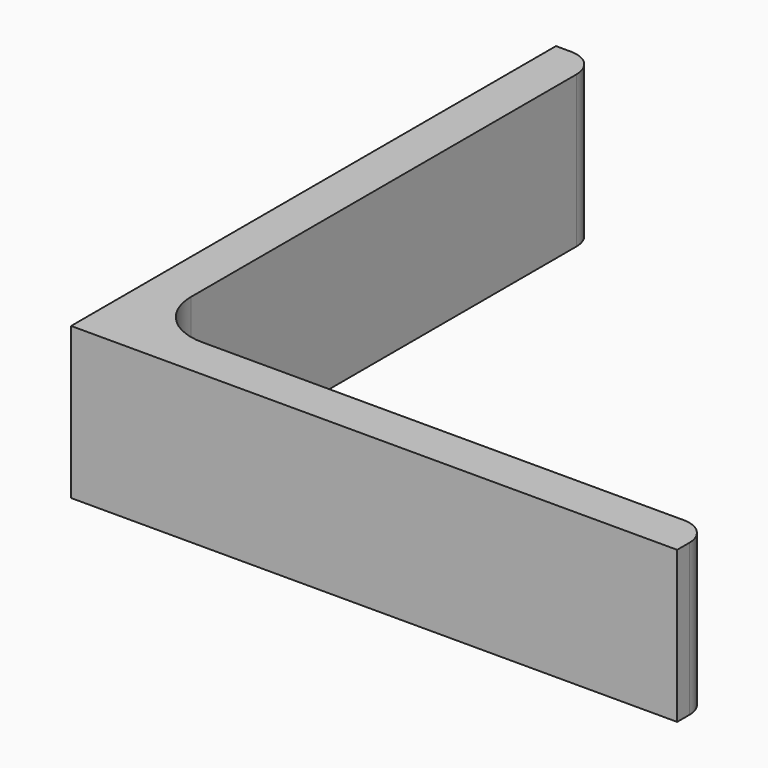
from build123d import *

# Parameters (mm, degrees)
EXTRUDE_DEPTH = 50


with BuildPart() as part:
    # Sketch → Extrude (new body)
    with BuildSketch(Plane.XY):
        with BuildLine():
            Line((0, 0), (200, 0))
            Line((200, 0), (200, 5))
            ThreePointArc((200, 5), (197.363961, 11.363961), (191, 14))
            Line((191, 14), (32, 14))
            ThreePointArc((14, 32), (19.272078, 19.272078), (32, 14))
            Line((14, 191), (14, 32))
            ThreePointArc((14, 191), (11.363961, 197.363961), (5, 200))
            Line((0, 200), (5, 200))
            Line((0, 0), (0, 200))
        make_face()
    extrude(amount=EXTRUDE_DEPTH)


solid = part.part
